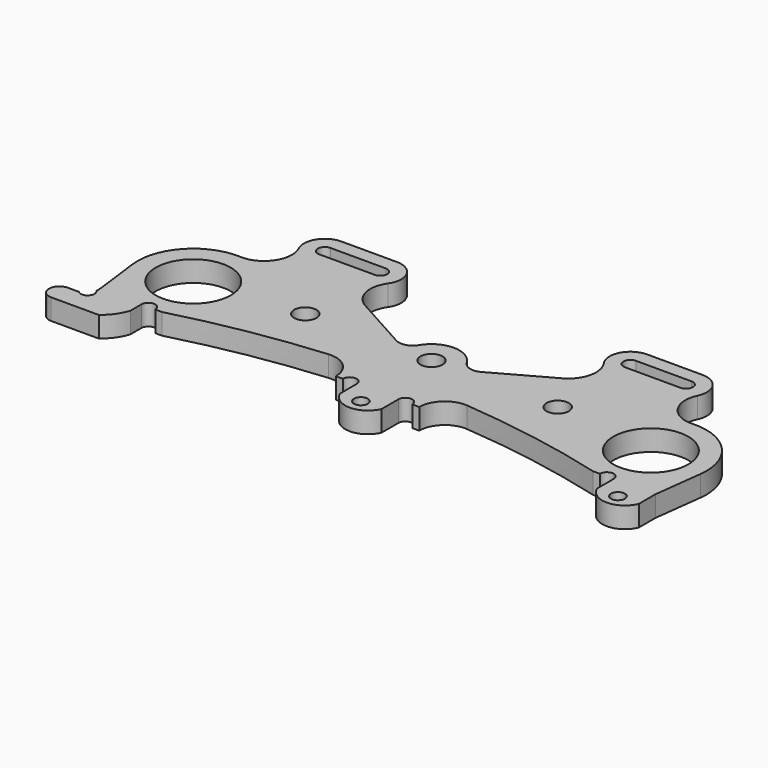
from build123d import *

# Parameters (mm, degrees)
SKETCH007_R          = 0.5
PAD001_DEPTH         = 1.5
POCKET_DEPTH         = 1.501
POCKET_DEPTH_BACK    = 0.001
SKETCH_R             = 0.8
SKETCH_R_2           = 2.7
POCKET001_DEPTH      = 1.501
POCKET001_DEPTH_BACK = 0.001


with BuildPart() as part:
    # Sketch007 → Pad001 (new body)
    with BuildSketch(Plane.XY):
        with BuildLine():
            Line((-20, 0), (-20, -0.292893))
            ThreePointArc((-20.707107, -1), (-20, -1), (-20, -0.292893))
            Line((-20.707107, -1), (-21.5, -1))
            ThreePointArc((-21.5, -1), (-22.25, -1.75), (-21.5, -2.5))
            Line((-21.5, -2.5), (-18.063508, -2.5))
            ThreePointArc((-18.063508, -2.5), (-17.420322, -1.829006), (-17, -1))
            Line((-17, 0), (-17, -1))
            ThreePointArc((-16, 0), (-16.5, 0.5), (-17, 0))
            Line((-16, 0), (-15.5, 0))
            ThreePointArc((-4.98789, 1.828965), (-10.284682, 1.148622), (-15.5, 0))
            ThreePointArc((-3, 0), (-3.592665, 1.350631), (-4.98789, 1.828965))
            Line((-2.5, 0), (-3, 0))
            ThreePointArc((-1.5, 0), (-2, 0.5), (-2.5, 0))
            Line((-1.5, -1.5), (-1.5, 0))
            ThreePointArc((-1.5, -1.5), (0, -2.5), (1.5, -1.5))
            Line((1.5, 0), (1.5, -1.5))
            ThreePointArc((2.5, 0), (2, 0.5), (1.5, 0))
            Line((2.5, 0), (3, 0))
            ThreePointArc((4.98789, 1.828965), (3.592665, 1.350631), (3, 0))
            ThreePointArc((15.5, 0), (10.284682, 1.148622), (4.98789, 1.828965))
            Line((16, 0), (15.5, 0))
            ThreePointArc((17, 0), (16.5, 0.5), (16, 0))
            Line((17, 0), (17, -1.5))
            ThreePointArc((17, -1.5), (18.5, -2.5), (20, -1.5))
            Line((20, -1.5), (20, 0))
            Line((20, 0), (20.436997, 3.505138))
            ThreePointArc((20.436997, 3.505138), (19.396762, 6.724105), (16.261564, 7.994684))
            ThreePointArc((14.353635, 10.853725), (14.494893, 8.88186), (16.261564, 7.994684))
            ThreePointArc((14.353635, 10.853725), (14.268742, 12.300184), (13, 13))
            Line((13, 13), (9, 13))
            ThreePointArc((9, 13), (7.6704, 12.194379), (7.769004, 10.642884))
            ThreePointArc((7.097708, 7.751052), (8.075873, 9.047817), (7.769004, 10.642884))
            Line((3.061388, 5.512462), (7.097708, 7.751052))
            ThreePointArc((1.717585, 5.874647), (2.316142, 5.421425), (3.061388, 5.512462))
            ThreePointArc((1.717585, 5.874647), (0, 6.85), (-1.717585, 5.874647))
            ThreePointArc((-3.061388, 5.512462), (-2.316142, 5.421425), (-1.717585, 5.874647))
            Line((-7.097708, 7.751052), (-3.061388, 5.512462))
            ThreePointArc((-7.769004, 10.642884), (-8.075873, 9.047817), (-7.097708, 7.751052))
            ThreePointArc((-7.769004, 10.642884), (-7.6704, 12.19438), (-9, 13))
            Line((-13, 13), (-9, 13))
            ThreePointArc((-13, 13), (-14.268742, 12.300184), (-14.353635, 10.853725))
            ThreePointArc((-16.261564, 7.994684), (-14.494893, 8.88186), (-14.353635, 10.853725))
            ThreePointArc((-16.261564, 7.994684), (-19.396762, 6.724105), (-20.436997, 3.505138))
            Line((-20, 0), (-20.436997, 3.505138))
        make_face()
        with Locations((18.5, -1.5)):
            Circle(SKETCH007_R, mode=Mode.SUBTRACT)
        with Locations((0, -1.5)):
            Circle(SKETCH007_R, mode=Mode.SUBTRACT)
    extrude(amount=PAD001_DEPTH)

    # Sketch006 → Pocket (cut, two sides)
    with BuildSketch(Plane.XY) as pocket_sk:
        with BuildLine():
            ThreePointArc((-13, 12), (-13.5, 11.5), (-13, 11))
            Line((-13, 11), (-9, 11))
            ThreePointArc((-9, 11), (-8.5, 11.5), (-9, 12))
            Line((-13, 12), (-9, 12))
        make_face()
        with BuildLine():
            ThreePointArc((9, 12), (8.5, 11.5), (9, 11))
            Line((9, 11), (13, 11))
            ThreePointArc((13, 11), (13.5, 11.5), (13, 12))
            Line((9, 12), (13, 12))
        make_face()
    extrude(amount=POCKET_DEPTH, mode=Mode.SUBTRACT)
    extrude(pocket_sk.sketch, amount=-POCKET_DEPTH_BACK, mode=Mode.SUBTRACT)

    # Sketch → Pocket001 (cut, two sides)
    with BuildSketch(Plane.XY) as pocket001_sk:
        with Locations((-9.083242, 4.85)):
            Circle(SKETCH_R)
        with Locations((9.083242, 4.85)):
            Circle(SKETCH_R)
        with Locations((0, 4.85)):
            Circle(SKETCH_R)
        with Locations((-16.467726, 4)):
            Circle(SKETCH_R_2)
        with Locations((16.467726, 4)):
            Circle(SKETCH_R_2)
    extrude(amount=POCKET001_DEPTH, mode=Mode.SUBTRACT)
    extrude(pocket001_sk.sketch, amount=-POCKET001_DEPTH_BACK, mode=Mode.SUBTRACT)


solid = part.part
